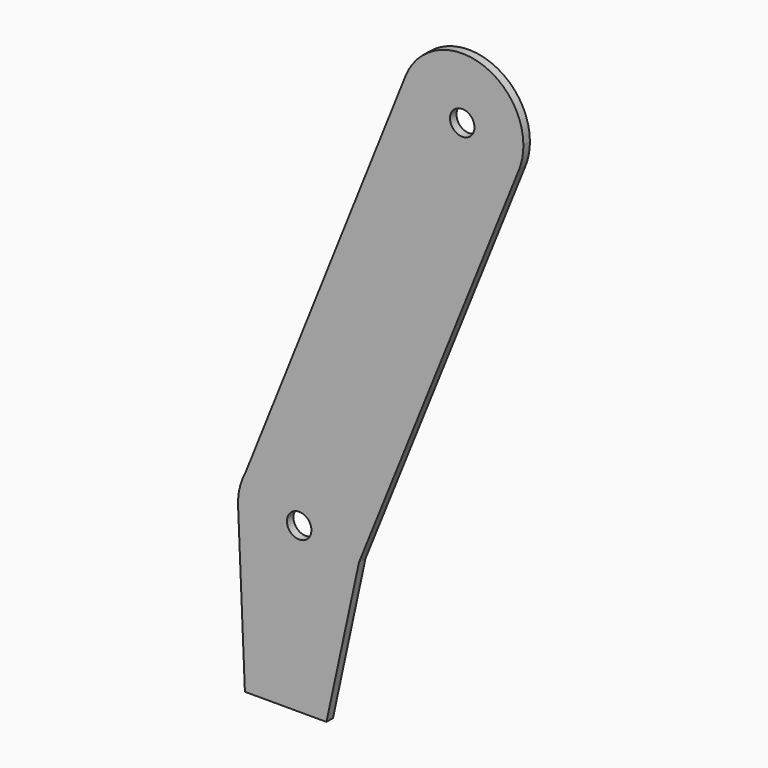
from build123d import *

# Parameters (mm, degrees)
F0_R     = 15
F1_DEPTH = 10


with BuildPart() as f1:
    # F0 (on Front) → F1 (new body)
    with BuildSketch(Plane.XZ):
        with BuildLine():
            Line((-156.840603, -35.512017), (-148.46769, -233.372989))
            Line((-148.46769, -233.372989), (-48.46769, -233.372989))
            Line((-48.46769, -233.372989), (-8.587465, -48.125499))
            ThreePointArc((-8.587465, -48.125499), (-88.265748, -107.071081), (-156.840603, -35.512017))
        make_face()
        with BuildLine():
            ThreePointArc((-147.80923, 3.463734), (-154.971791, -15.410814), (-156.840603, -35.512017))
            ThreePointArc((-156.840603, -35.512017), (-88.265748, -107.071081), (-8.587465, -48.125499))
            ThreePointArc((-8.587465, -48.125499), (-7.328798, -40.277849), (-6.907666, -32.341069))
            ThreePointArc((-6.907666, -32.341069), (-63.4363, 40.348743), (-147.80923, 3.463734))
        make_face()
        with Locations((-81.907666, -32.341069)):
            Circle(F0_R, mode=Mode.SUBTRACT)
        with BuildLine():
            ThreePointArc((-6.907666, -32.341069), (-7.328798, -40.277849), (-8.587465, -48.125499))
            Line((-8.587465, -48.125499), (187.671707, 439.664094))
            ThreePointArc((187.671707, 439.664094), (90.20155, 398.037784), (48.429568, 495.445601))
            Line((48.429568, 495.445601), (-147.80923, 3.463734))
            ThreePointArc((-147.80923, 3.463734), (-63.4363, 40.348743), (-6.907666, -32.341069))
        make_face()
        with BuildLine():
            ThreePointArc((48.429568, 495.445601), (90.20155, 398.037784), (187.671707, 439.664094))
            ThreePointArc((187.671707, 439.664094), (191.724708, 453.401529), (193.092334, 467.658931))
            ThreePointArc((193.092334, 467.658931), (132.23964, 541.312538), (48.429568, 495.445601))
        make_face()
        with Locations((118.092334, 467.658931)):
            Circle(F0_R, mode=Mode.SUBTRACT)
    extrude(amount=F1_DEPTH)


solid = f1.part
